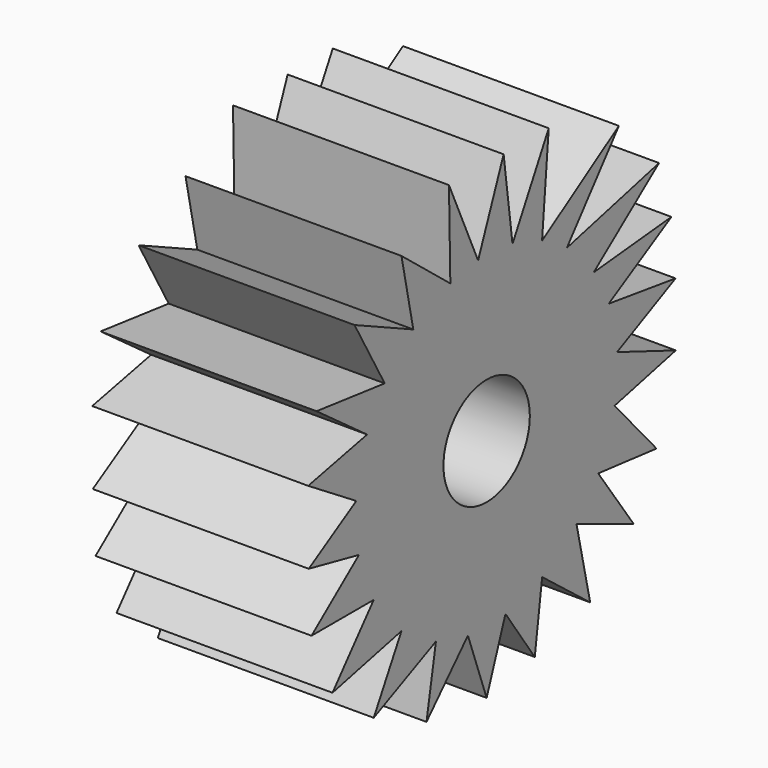
from build123d import *

# Parameters (mm, degrees)
F0_R     = 6.35
F1_DEPTH = 12.7
F2_DEPTH = 25.4


with BuildPart() as f1:
    # F0 (on Right) → F1 (new body)
    with BuildSketch(Plane.YZ):
        with BuildLine():
            ThreePointArc((19.1779890784, 1.4045410483), (18.7646486695, 4.2018996845), (17.9455312271, 6.9083941421))
            ThreePointArc((17.9455312271, 6.9083941421), (16.9682929221, 9.0468246339), (15.7373856101, 11.0500088147))
            ThreePointArc((15.7373856101, 11.0500088147), (13.9188023359, 13.267816029), (11.7905793137, 15.1904654337))
            ThreePointArc((11.7905793137, 15.1904654337), (10.0305268432, 16.4059907319), (8.146362677, 17.4185181856))
            Line((8.146362677, 17.4185181856), (6.2738156783, 18.1771075114))
            ThreePointArc((6.2738156783, 18.1771075114), (5.0492538332, 18.5545960984), (3.8022694856, 18.8496882575))
            ThreePointArc((3.8022694856, 18.8496882575), (1.284752774, 19.1863860838), (-1.2551787188, 19.1883435197))
            ThreePointArc((-1.2551787188, 19.1883435197), (-3.3155527437, 18.9413597888), (-5.33731542, 18.473794))
            ThreePointArc((-5.33731542, 18.473794), (-8.1592905959, 17.4124661556), (-10.7806869477, 15.9230898252))
            ThreePointArc((-10.7806869477, 15.9230898252), (-13.0287220692, 14.1428569211), (-14.987024811, 12.0481155357))
            ThreePointArc((-14.987024811, 12.0481155357), (-16.4183682627, 10.0102539547), (-17.5743483924, 7.8045037785))
            ThreePointArc((-17.5743483924, 7.8045037785), (-18.6316829863, 4.7569307063), (-19.1647025444, 1.5754926314))
            ThreePointArc((-19.1647025444, 1.5754926314), (-19.1845061039, -1.3125266459), (-18.7715548633, -4.1709385826))
            ThreePointArc((-18.7715548633, -4.1709385826), (-17.9011716614, -7.0225389849), (-16.6004457918, -9.705318138))
            ThreePointArc((-16.6004457918, -9.705318138), (-14.7650993301, -12.3190844798), (-12.5224487856, -14.5930215192))
            ThreePointArc((-12.5224487856, -14.5930215192), (-10.1104693622, -16.356845965), (-7.4543542534, -17.7257045928))
            ThreePointArc((-7.4543542534, -17.7257045928), (-5.1467207251, -18.5277971282), (-2.7560125907, -19.0308274977))
            ThreePointArc((-2.7560125907, -19.0308274977), (0.0055746036, -19.229351772), (2.7670462291, -19.0292263588))
            ThreePointArc((2.7670462291, -19.0292263588), (5.5227369883, -18.4192121657), (8.1594508744, -17.4123910499))
            ThreePointArc((8.1594508744, -17.4123910499), (10.8224755536, -15.8947168436), (13.2105236497, -13.973190958))
            ThreePointArc((13.2105236497, -13.973190958), (14.9368977955, -12.1102058155), (16.4026784276, -10.0359424594))
            ThreePointArc((16.4026784276, -10.0359424594), (17.8618765328, -7.1218935245), (18.8080234165, -4.003280631))
            ThreePointArc((18.8080234165, -4.003280631), (19.1237302096, -2.0126955852), (19.22935258, 0))
            ThreePointArc((19.22935258, 0), (19.2166394569, 0.6991198959), (19.1785168978, 1.397315372))
            Line((19.1785168978, 1.397315372), (19.1698875278, 1.4006438432))
            Line((19.1698875278, 1.4006438432), (19.1779890784, 1.4045410483))
        make_face()
        Circle(F0_R, mode=Mode.SUBTRACT)
        with BuildLine():
            Line((27.7707912028, 5.5380598642), (17.9455312271, 6.9083941421))
            ThreePointArc((17.9455312271, 6.9083941421), (18.7646486695, 4.2018996845), (19.1779890784, 1.4045410483))
            Line((19.1779890784, 1.4045410483), (27.7707912028, 5.5380598642))
        make_face()
        with BuildLine():
            ThreePointArc((15.7373856101, 11.0500088147), (16.9682929221, 9.0468246339), (17.9455312271, 6.9083941421))
            Line((17.9455312271, 6.9083941421), (27.1644499153, 12.1538350359))
            Line((27.1644499153, 12.1538350359), (15.7373856101, 11.0500088147))
        make_face()
        with BuildLine():
            ThreePointArc((11.7905793137, 15.1904654337), (13.9188023359, 13.267816029), (15.7373856101, 11.0500088147))
            Line((15.7373856101, 11.0500088147), (25.3397952765, 18.473794))
            Line((25.3397952765, 18.473794), (11.7905793137, 15.1904654337))
        make_face()
        with BuildLine():
            ThreePointArc((19.1785168978, 1.397315372), (19.1782533284, 1.400928235), (19.1779890784, 1.4045410483))
            Line((19.1779890784, 1.4045410483), (19.1698875278, 1.4006438432))
            Line((19.1698875278, 1.4006438432), (19.1785168978, 1.397315372))
        make_face()
        with BuildLine():
            ThreePointArc((8.146362677, 17.4185181856), (10.0305268432, 16.4059907319), (11.7905793137, 15.1904654337))
            Line((11.7905793137, 15.1904654337), (19.4416427454, 24.7160838446))
            Line((19.4416427454, 24.7160838446), (8.146362677, 17.4185181856))
        make_face()
        with BuildLine():
            Line((27.8078578413, -1.9311446231), (19.1785168978, 1.397315372))
            ThreePointArc((19.1785168978, 1.397315372), (19.2166394569, 0.6991198959), (19.22935258, 0))
            ThreePointArc((19.22935258, 0), (19.1237302096, -2.0126955852), (18.8080234165, -4.003280631))
            Line((18.8080234165, -4.003280631), (27.8078578413, -1.9311446231))
        make_face()
        with BuildLine():
            Line((6.2738156783, 18.1771075114), (8.146362677, 17.4185181856))
            ThreePointArc((8.146362677, 17.4185181856), (7.2200588911, 17.822422682), (6.2738156783, 18.1771075114))
        make_face()
        with BuildLine():
            ThreePointArc((6.2738156783, 18.1771075114), (7.2200588911, 17.822422682), (8.146362677, 17.4185181856))
            Line((8.146362677, 17.4185181856), (9.1274725273, 28.6630652845))
            Line((9.1274725273, 28.6630652845), (3.8022694856, 18.8496882575))
            ThreePointArc((3.8022694856, 18.8496882575), (5.0492538332, 18.5545960984), (6.2738156783, 18.1771075114))
        make_face()
        with BuildLine():
            Line((24.9696671963, -10.9393130988), (18.8080234165, -4.003280631))
            ThreePointArc((18.8080234165, -4.003280631), (17.8618765328, -7.1218935245), (16.4026784276, -10.0359424594))
            Line((16.4026784276, -10.0359424594), (24.9696671963, -10.9393130988))
        make_face()
        with BuildLine():
            ThreePointArc((-1.2551787188, 19.1883435197), (1.284752774, 19.1863860838), (3.8022694856, 18.8496882575))
            Line((3.8022694856, 18.8496882575), (2.4951577652, 28.6630652845))
            Line((2.4951577652, 28.6630652845), (-1.2551787188, 19.1883435197))
        make_face()
        with BuildLine():
            Line((21.637879312, -17.4123910499), (16.4026784276, -10.0359424594))
            ThreePointArc((16.4026784276, -10.0359424594), (14.9368977955, -12.1102058155), (13.2105236497, -13.973190958))
            Line((13.2105236497, -13.973190958), (21.637879312, -17.4123910499))
        make_face()
        with BuildLine():
            ThreePointArc((-5.33731542, 18.473794), (-3.3155527437, 18.9413597888), (-1.2551787188, 19.1883435197))
            Line((-1.2551787188, 19.1883435197), (-5.5373124778, 28.7367589772))
            Line((-5.5373124778, 28.7367589772), (-5.33731542, 18.473794))
        make_face()
        with BuildLine():
            Line((15.2211012319, -22.9090731591), (13.2105236497, -13.973190958))
            ThreePointArc((13.2105236497, -13.973190958), (10.8224755536, -15.8947168436), (8.1594508744, -17.4123910499))
            Line((8.1594508744, -17.4123910499), (15.2211012319, -22.9090731591))
        make_face()
        with BuildLine():
            ThreePointArc((-10.7806869477, 15.9230898252), (-8.1592905959, 17.4124661556), (-5.33731542, 18.473794))
            Line((-5.33731542, 18.473794), (-12.5224487856, 24.2449585348))
            Line((-12.5224487856, 24.2449585348), (-10.7806869477, 15.9230898252))
        make_face()
        with BuildLine():
            Line((7.0767295547, -25.2536628395), (8.1594508744, -17.4123910499))
            ThreePointArc((8.1594508744, -17.4123910499), (5.5227369883, -18.4192121657), (2.7670462291, -19.0292263588))
            Line((2.7670462291, -19.0292263588), (7.0767295547, -25.2536628395))
        make_face()
        with BuildLine():
            ThreePointArc((-14.987024811, 12.0481155357), (-13.0287220692, 14.1428569211), (-10.7806869477, 15.9230898252))
            Line((-10.7806869477, 15.9230898252), (-19.4206815213, 19.8925025761))
            Line((-19.4206815213, 19.8925025761), (-14.987024811, 12.0481155357))
        make_face()
        with BuildLine():
            Line((0, -26.6110599041), (2.7670462291, -19.0292263588))
            ThreePointArc((2.7670462291, -19.0292263588), (0.0055746036, -19.229351772), (-2.7560125907, -19.0308274977))
            Line((-2.7560125907, -19.0308274977), (0, -26.6110599041))
        make_face()
        with BuildLine():
            ThreePointArc((-17.5743483924, 7.8045037785), (-16.4183682627, 10.0102539547), (-14.987024811, 12.0481155357))
            Line((-14.987024811, 12.0481155357), (-25.0049643219, 13.2406353951))
            Line((-25.0049643219, 13.2406353951), (-17.5743483924, 7.8045037785))
        make_face()
        with BuildLine():
            Line((-8.8418172672, -25.5004633218), (-2.7560125907, -19.0308274977))
            ThreePointArc((-2.7560125907, -19.0308274977), (-5.1467207251, -18.5277971282), (-7.4543542534, -17.7257045928))
            Line((-7.4543542534, -17.7257045928), (-8.8418172672, -25.5004633218))
        make_face()
        with BuildLine():
            ThreePointArc((-19.1647025444, 1.5754926314), (-18.6316829863, 4.7569307063), (-17.5743483924, 7.8045037785))
            Line((-17.5743483924, 7.8045037785), (-26.2367911637, 6.0139154084))
            Line((-26.2367911637, 6.0139154084), (-19.1647025444, 1.5754926314))
        make_face()
        with BuildLine():
            Line((-16.6004457918, -21.9218768179), (-7.4543542534, -17.7257045928))
            ThreePointArc((-7.4543542534, -17.7257045928), (-10.1104693622, -16.356845965), (-12.5224487856, -14.5930215192))
            Line((-12.5224487856, -14.5930215192), (-16.6004457918, -21.9218768179))
        make_face()
        with BuildLine():
            ThreePointArc((-18.7715548633, -4.1709385826), (-19.1845061039, -1.3125266459), (-19.1647025444, 1.5754926314))
            Line((-19.1647025444, 1.5754926314), (-26.1546708643, -2.6088752784))
            Line((-26.1546708643, -2.6088752784), (-18.7715548633, -4.1709385826))
        make_face()
        with BuildLine():
            Line((-22.6625707, -16.8624930084), (-12.5224487856, -14.5930215192))
            ThreePointArc((-12.5224487856, -14.5930215192), (-14.7650993301, -12.3190844798), (-16.6004457918, -9.705318138))
            Line((-16.6004457918, -9.705318138), (-22.6625707, -16.8624930084))
        make_face()
        with BuildLine():
            ThreePointArc((-16.6004457918, -9.705318138), (-17.9011716614, -7.0225389849), (-18.7715548633, -4.1709385826))
            Line((-18.7715548633, -4.1709385826), (-25.7475599647, -9.705318138))
            Line((-25.7475599647, -9.705318138), (-16.6004457918, -9.705318138))
        make_face()
    extrude(amount=F1_DEPTH)

    # F0 (on Right) → F2 (join)
    with BuildSketch(Plane.YZ):
        with BuildLine():
            ThreePointArc((19.1779890784, 1.4045410483), (18.7646486695, 4.2018996845), (17.9455312271, 6.9083941421))
            ThreePointArc((17.9455312271, 6.9083941421), (16.9682929221, 9.0468246339), (15.7373856101, 11.0500088147))
            ThreePointArc((15.7373856101, 11.0500088147), (13.9188023359, 13.267816029), (11.7905793137, 15.1904654337))
            ThreePointArc((11.7905793137, 15.1904654337), (10.0305268432, 16.4059907319), (8.146362677, 17.4185181856))
            Line((8.146362677, 17.4185181856), (6.2738156783, 18.1771075114))
            ThreePointArc((6.2738156783, 18.1771075114), (5.0492538332, 18.5545960984), (3.8022694856, 18.8496882575))
            ThreePointArc((3.8022694856, 18.8496882575), (1.284752774, 19.1863860838), (-1.2551787188, 19.1883435197))
            ThreePointArc((-1.2551787188, 19.1883435197), (-3.3155527437, 18.9413597888), (-5.33731542, 18.473794))
            ThreePointArc((-5.33731542, 18.473794), (-8.1592905959, 17.4124661556), (-10.7806869477, 15.9230898252))
            ThreePointArc((-10.7806869477, 15.9230898252), (-13.0287220692, 14.1428569211), (-14.987024811, 12.0481155357))
            ThreePointArc((-14.987024811, 12.0481155357), (-16.4183682627, 10.0102539547), (-17.5743483924, 7.8045037785))
            ThreePointArc((-17.5743483924, 7.8045037785), (-18.6316829863, 4.7569307063), (-19.1647025444, 1.5754926314))
            ThreePointArc((-19.1647025444, 1.5754926314), (-19.1845061039, -1.3125266459), (-18.7715548633, -4.1709385826))
            ThreePointArc((-18.7715548633, -4.1709385826), (-17.9011716614, -7.0225389849), (-16.6004457918, -9.705318138))
            ThreePointArc((-16.6004457918, -9.705318138), (-14.7650993301, -12.3190844798), (-12.5224487856, -14.5930215192))
            ThreePointArc((-12.5224487856, -14.5930215192), (-10.1104693622, -16.356845965), (-7.4543542534, -17.7257045928))
            ThreePointArc((-7.4543542534, -17.7257045928), (-5.1467207251, -18.5277971282), (-2.7560125907, -19.0308274977))
            ThreePointArc((-2.7560125907, -19.0308274977), (0.0055746036, -19.229351772), (2.7670462291, -19.0292263588))
            ThreePointArc((2.7670462291, -19.0292263588), (5.5227369883, -18.4192121657), (8.1594508744, -17.4123910499))
            ThreePointArc((8.1594508744, -17.4123910499), (10.8224755536, -15.8947168436), (13.2105236497, -13.973190958))
            ThreePointArc((13.2105236497, -13.973190958), (14.9368977955, -12.1102058155), (16.4026784276, -10.0359424594))
            ThreePointArc((16.4026784276, -10.0359424594), (17.8618765328, -7.1218935245), (18.8080234165, -4.003280631))
            ThreePointArc((18.8080234165, -4.003280631), (19.1237302096, -2.0126955852), (19.22935258, 0))
            ThreePointArc((19.22935258, 0), (19.2166394569, 0.6991198959), (19.1785168978, 1.397315372))
            Line((19.1785168978, 1.397315372), (19.1698875278, 1.4006438432))
            Line((19.1698875278, 1.4006438432), (19.1779890784, 1.4045410483))
        make_face()
        Circle(F0_R, mode=Mode.SUBTRACT)
        with BuildLine():
            Line((27.7707912028, 5.5380598642), (17.9455312271, 6.9083941421))
            ThreePointArc((17.9455312271, 6.9083941421), (18.7646486695, 4.2018996845), (19.1779890784, 1.4045410483))
            Line((19.1779890784, 1.4045410483), (27.7707912028, 5.5380598642))
        make_face()
        with BuildLine():
            ThreePointArc((15.7373856101, 11.0500088147), (16.9682929221, 9.0468246339), (17.9455312271, 6.9083941421))
            Line((17.9455312271, 6.9083941421), (27.1644499153, 12.1538350359))
            Line((27.1644499153, 12.1538350359), (15.7373856101, 11.0500088147))
        make_face()
        with BuildLine():
            ThreePointArc((11.7905793137, 15.1904654337), (13.9188023359, 13.267816029), (15.7373856101, 11.0500088147))
            Line((15.7373856101, 11.0500088147), (25.3397952765, 18.473794))
            Line((25.3397952765, 18.473794), (11.7905793137, 15.1904654337))
        make_face()
        with BuildLine():
            ThreePointArc((19.1785168978, 1.397315372), (19.1782533284, 1.400928235), (19.1779890784, 1.4045410483))
            Line((19.1779890784, 1.4045410483), (19.1698875278, 1.4006438432))
            Line((19.1698875278, 1.4006438432), (19.1785168978, 1.397315372))
        make_face()
        with BuildLine():
            ThreePointArc((8.146362677, 17.4185181856), (10.0305268432, 16.4059907319), (11.7905793137, 15.1904654337))
            Line((11.7905793137, 15.1904654337), (19.4416427454, 24.7160838446))
            Line((19.4416427454, 24.7160838446), (8.146362677, 17.4185181856))
        make_face()
        with BuildLine():
            Line((27.8078578413, -1.9311446231), (19.1785168978, 1.397315372))
            ThreePointArc((19.1785168978, 1.397315372), (19.2166394569, 0.6991198959), (19.22935258, 0))
            ThreePointArc((19.22935258, 0), (19.1237302096, -2.0126955852), (18.8080234165, -4.003280631))
            Line((18.8080234165, -4.003280631), (27.8078578413, -1.9311446231))
        make_face()
        with BuildLine():
            Line((6.2738156783, 18.1771075114), (8.146362677, 17.4185181856))
            ThreePointArc((8.146362677, 17.4185181856), (7.2200588911, 17.822422682), (6.2738156783, 18.1771075114))
        make_face()
        with BuildLine():
            ThreePointArc((6.2738156783, 18.1771075114), (7.2200588911, 17.822422682), (8.146362677, 17.4185181856))
            Line((8.146362677, 17.4185181856), (9.1274725273, 28.6630652845))
            Line((9.1274725273, 28.6630652845), (3.8022694856, 18.8496882575))
            ThreePointArc((3.8022694856, 18.8496882575), (5.0492538332, 18.5545960984), (6.2738156783, 18.1771075114))
        make_face()
        with BuildLine():
            Line((24.9696671963, -10.9393130988), (18.8080234165, -4.003280631))
            ThreePointArc((18.8080234165, -4.003280631), (17.8618765328, -7.1218935245), (16.4026784276, -10.0359424594))
            Line((16.4026784276, -10.0359424594), (24.9696671963, -10.9393130988))
        make_face()
        with BuildLine():
            ThreePointArc((-1.2551787188, 19.1883435197), (1.284752774, 19.1863860838), (3.8022694856, 18.8496882575))
            Line((3.8022694856, 18.8496882575), (2.4951577652, 28.6630652845))
            Line((2.4951577652, 28.6630652845), (-1.2551787188, 19.1883435197))
        make_face()
        with BuildLine():
            Line((21.637879312, -17.4123910499), (16.4026784276, -10.0359424594))
            ThreePointArc((16.4026784276, -10.0359424594), (14.9368977955, -12.1102058155), (13.2105236497, -13.973190958))
            Line((13.2105236497, -13.973190958), (21.637879312, -17.4123910499))
        make_face()
        with BuildLine():
            ThreePointArc((-5.33731542, 18.473794), (-3.3155527437, 18.9413597888), (-1.2551787188, 19.1883435197))
            Line((-1.2551787188, 19.1883435197), (-5.5373124778, 28.7367589772))
            Line((-5.5373124778, 28.7367589772), (-5.33731542, 18.473794))
        make_face()
        with BuildLine():
            Line((15.2211012319, -22.9090731591), (13.2105236497, -13.973190958))
            ThreePointArc((13.2105236497, -13.973190958), (10.8224755536, -15.8947168436), (8.1594508744, -17.4123910499))
            Line((8.1594508744, -17.4123910499), (15.2211012319, -22.9090731591))
        make_face()
        with BuildLine():
            ThreePointArc((-10.7806869477, 15.9230898252), (-8.1592905959, 17.4124661556), (-5.33731542, 18.473794))
            Line((-5.33731542, 18.473794), (-12.5224487856, 24.2449585348))
            Line((-12.5224487856, 24.2449585348), (-10.7806869477, 15.9230898252))
        make_face()
        with BuildLine():
            Line((7.0767295547, -25.2536628395), (8.1594508744, -17.4123910499))
            ThreePointArc((8.1594508744, -17.4123910499), (5.5227369883, -18.4192121657), (2.7670462291, -19.0292263588))
            Line((2.7670462291, -19.0292263588), (7.0767295547, -25.2536628395))
        make_face()
        with BuildLine():
            ThreePointArc((-14.987024811, 12.0481155357), (-13.0287220692, 14.1428569211), (-10.7806869477, 15.9230898252))
            Line((-10.7806869477, 15.9230898252), (-19.4206815213, 19.8925025761))
            Line((-19.4206815213, 19.8925025761), (-14.987024811, 12.0481155357))
        make_face()
        with BuildLine():
            Line((0, -26.6110599041), (2.7670462291, -19.0292263588))
            ThreePointArc((2.7670462291, -19.0292263588), (0.0055746036, -19.229351772), (-2.7560125907, -19.0308274977))
            Line((-2.7560125907, -19.0308274977), (0, -26.6110599041))
        make_face()
        with BuildLine():
            ThreePointArc((-17.5743483924, 7.8045037785), (-16.4183682627, 10.0102539547), (-14.987024811, 12.0481155357))
            Line((-14.987024811, 12.0481155357), (-25.0049643219, 13.2406353951))
            Line((-25.0049643219, 13.2406353951), (-17.5743483924, 7.8045037785))
        make_face()
        with BuildLine():
            Line((-8.8418172672, -25.5004633218), (-2.7560125907, -19.0308274977))
            ThreePointArc((-2.7560125907, -19.0308274977), (-5.1467207251, -18.5277971282), (-7.4543542534, -17.7257045928))
            Line((-7.4543542534, -17.7257045928), (-8.8418172672, -25.5004633218))
        make_face()
        with BuildLine():
            ThreePointArc((-19.1647025444, 1.5754926314), (-18.6316829863, 4.7569307063), (-17.5743483924, 7.8045037785))
            Line((-17.5743483924, 7.8045037785), (-26.2367911637, 6.0139154084))
            Line((-26.2367911637, 6.0139154084), (-19.1647025444, 1.5754926314))
        make_face()
        with BuildLine():
            Line((-16.6004457918, -21.9218768179), (-7.4543542534, -17.7257045928))
            ThreePointArc((-7.4543542534, -17.7257045928), (-10.1104693622, -16.356845965), (-12.5224487856, -14.5930215192))
            Line((-12.5224487856, -14.5930215192), (-16.6004457918, -21.9218768179))
        make_face()
        with BuildLine():
            ThreePointArc((-18.7715548633, -4.1709385826), (-19.1845061039, -1.3125266459), (-19.1647025444, 1.5754926314))
            Line((-19.1647025444, 1.5754926314), (-26.1546708643, -2.6088752784))
            Line((-26.1546708643, -2.6088752784), (-18.7715548633, -4.1709385826))
        make_face()
        with BuildLine():
            Line((-22.6625707, -16.8624930084), (-12.5224487856, -14.5930215192))
            ThreePointArc((-12.5224487856, -14.5930215192), (-14.7650993301, -12.3190844798), (-16.6004457918, -9.705318138))
            Line((-16.6004457918, -9.705318138), (-22.6625707, -16.8624930084))
        make_face()
        with BuildLine():
            ThreePointArc((-16.6004457918, -9.705318138), (-17.9011716614, -7.0225389849), (-18.7715548633, -4.1709385826))
            Line((-18.7715548633, -4.1709385826), (-25.7475599647, -9.705318138))
            Line((-25.7475599647, -9.705318138), (-16.6004457918, -9.705318138))
        make_face()
    extrude(amount=F2_DEPTH)


solid = f1.part
